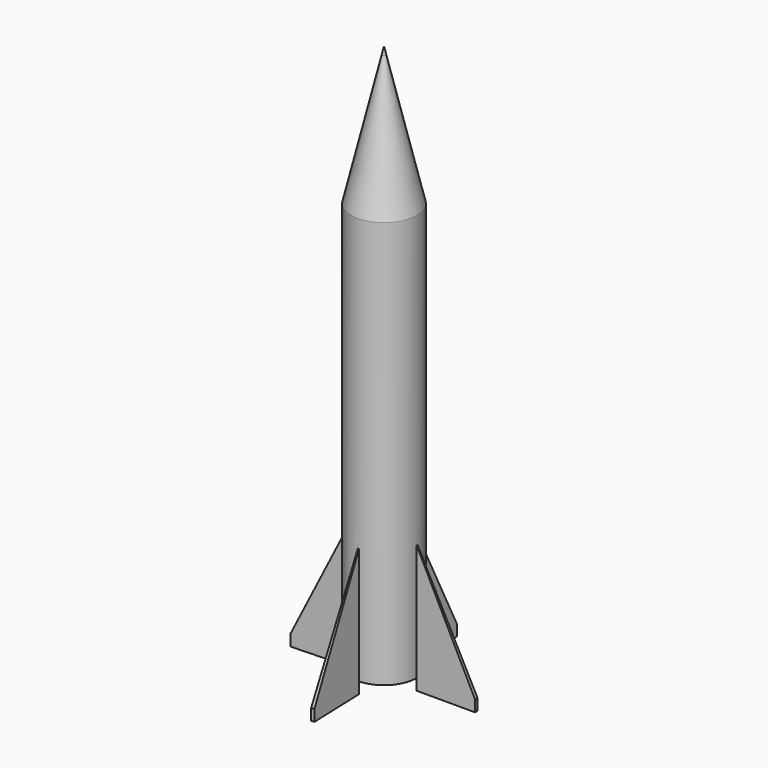
from build123d import *

# Parameters (mm, degrees)
F0_W     = 2
F0_H     = 2
F3_ANGLE = 2
F4_COUNT = 4
F5_R     = 1.9


with BuildPart() as f1:
    # F0 (on Front) → F1 (revolve)
    with BuildSketch(Plane.XZ):
        Polygon((0, 136.3415240048), (0, 143), (-0.472804497, 143), (-8.6974908319, 108.2089335533), (-8.6974908319, 0), (-6.7, 0), (-6.7, 42), (-6.7, 44), (-6.7, 108), align=None)
        with Locations((-5.7, 43)):
            Rectangle(F0_W, F0_H)
        Polygon((0, 143), (0, 145), (-0.472804497, 143), align=None)
    revolve(axis=Axis((0, 0, 72.5), (0, 0, -1)))

    # F5
    f5_edges = [f1.edges().sort_by_distance(p)[0] for p in [
        (4.7, 0, 42),
    ]]
    fillet(f5_edges, radius=F5_R)


with BuildPart() as f3:
    # F2 (on Right) → F3 (revolve)
    with BuildSketch(Plane.YZ):
        Polygon((8.7, 0), (8.7, -3), (24.2, -3), (24.2, 0), (8.7, 31), align=None)
    revolve(axis=Axis((0, 0, 25.5986005068), (0, 0, 1)), revolution_arc=F3_ANGLE)


with BuildPart() as f4_1:
    # F4: instance of F3
    add(f3.part.rotate(Axis((0, 0, 25.5986005068), (0, 0, 1)), 1 * 360 / F4_COUNT))


with BuildPart() as f4_2:
    # F4: instance of F3
    add(f3.part.rotate(Axis((0, 0, 25.5986005068), (0, 0, 1)), 2 * 360 / F4_COUNT))


with BuildPart() as f4_3:
    # F4: instance of F3
    add(f3.part.rotate(Axis((0, 0, 25.5986005068), (0, 0, 1)), 3 * 360 / F4_COUNT))


solid = Compound([f1.part, f3.part, f4_1.part, f4_2.part, f4_3.part])
